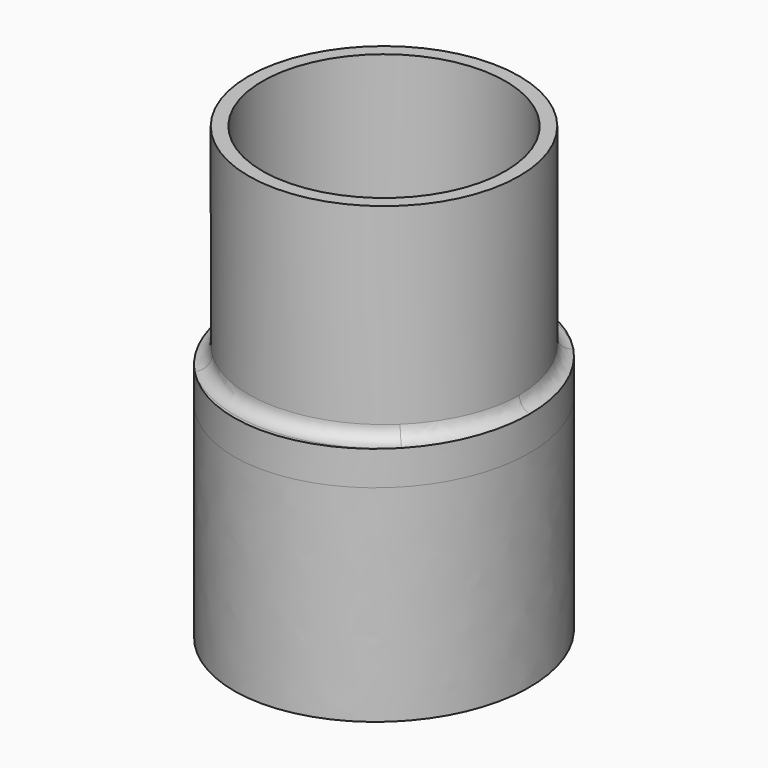
from build123d import *

# Parameters (mm, degrees)
PAD_DEPTH     = 30
SKETCH001_R   = 17.7
PAD001_DEPTH  = 5
SKETCH002_R   = 19.7
SKETCH002_R_2 = 17.7
PAD002_DEPTH  = 30
FILLET_R      = 2
FILLET001_R   = 2


with BuildPart() as part:
    # Sketch → Pad (new body)
    with BuildSketch(Plane.XY):
        with BuildLine():
            add(Edge.make_bspline(
                [(0, 22.2), (-36.719477, 22.2), (-18.359739, -11.1), (0, -44.4), (18.359739, -11.1), (36.719477, 22.2), (0, 22.2)],
                knots=[0, 0, 0, 2.094395, 2.094395, 4.18879, 4.18879, 6.283185, 6.283185, 6.283185], degree=2, weights=[1, 0.5, 1, 0.5, 1, 0.5, 1]))
        make_face()
        with BuildLine():
            add(Edge.make_bspline(
                [(0, 20.2), (-33.255376, 20.2), (-16.627688, -10.1), (0, -40.4), (16.627688, -10.1), (33.255376, 20.2), (0, 20.2)],
                knots=[0, 0, 0, 2.094395, 2.094395, 4.18879, 4.18879, 6.283185, 6.283185, 6.283185], degree=2, weights=[1, 0.5, 1, 0.5, 1, 0.5, 1]))
        make_face(mode=Mode.SUBTRACT)
    extrude(amount=PAD_DEPTH)

    # Sketch001 (on Face4 of Pad) → Pad001 (join)
    with BuildSketch(Plane.XY.offset(30)):
        with BuildLine():
            add(Edge.make_bspline(
                [(0, 22.2), (-36.719477, 22.2), (-18.359739, -11.1), (0, -44.4), (18.359739, -11.1), (36.719477, 22.2), (0, 22.2)],
                knots=[0, 0, 0, 2.094395, 2.094395, 4.18879, 4.18879, 6.283185, 6.283185, 6.283185], degree=2, weights=[1, 0.5, 1, 0.5, 1, 0.5, 1]))
        make_face()
        Circle(SKETCH001_R, mode=Mode.SUBTRACT)
    extrude(amount=PAD001_DEPTH)

    # Sketch002 (on Face5 of Pad001) → Pad002 (join)
    with BuildSketch(Plane.XY.offset(35)):
        Circle(SKETCH002_R)
        Circle(SKETCH002_R_2, mode=Mode.SUBTRACT)
    extrude(amount=PAD002_DEPTH)

    # Fillet
    fillet_edges = [part.edges().sort_by_distance(p)[0] for p in [
        (3.7e-05, -20.2, 30),
    ]]
    fillet(fillet_edges, radius=FILLET_R)

    # Fillet001
    fillet001_edges = [part.edges().sort_by_distance(p)[0] for p in [
        (-19.7, 0, 35),
    ]]
    fillet(fillet001_edges, radius=FILLET001_R)


solid = part.part
